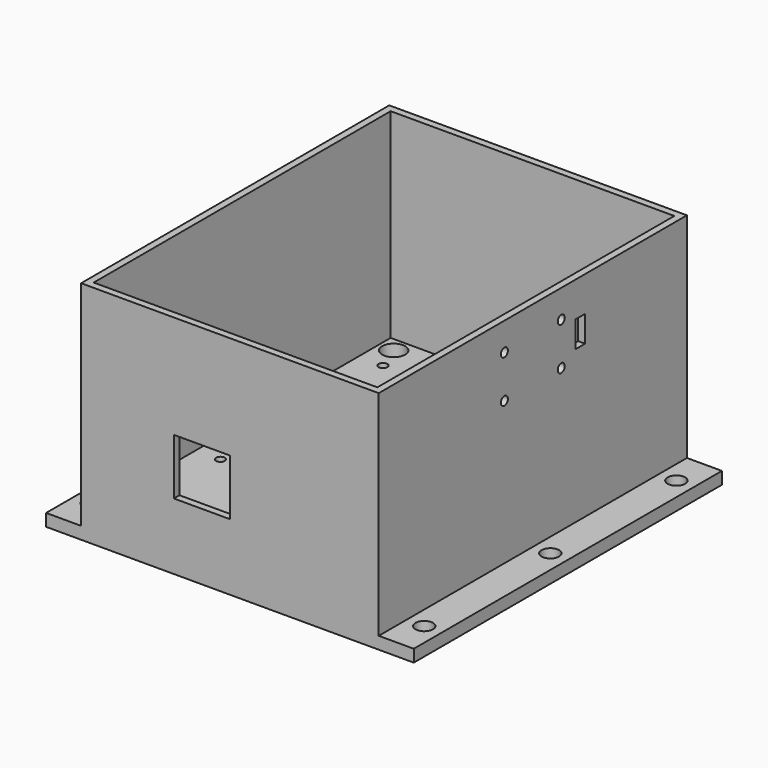
from build123d import *

# Parameters (mm, degrees)
SKETCH_W        = 105
SKETCH_H        = 110
PAD_DEPTH       = 7.5
SKETCH001_R     = 1.25
POCKET_DEPTH    = 8
SKETCH002_R     = 3
POCKET001_DEPTH = 6
SKETCH003_W     = 85
SKETCH003_H     = 110
SKETCH003_W_2   = 81
SKETCH003_H_2   = 106
PAD001_DEPTH    = 57
SKETCH004_R     = 3.29
POCKET002_DEPTH = 6
SKETCH005_W     = 10
SKETCH005_H     = 110
POCKET003_DEPTH = 4
SKETCH006_W     = 10
SKETCH006_H     = 110
POCKET004_DEPTH = 4
SKETCH007_R     = 2.5
POCKET005_DEPTH = 5
SKETCH008_W     = 16
SKETCH008_H     = 16
POCKET006_DEPTH = 5
SKETCH009_R     = 1.25
SKETCH009_W     = 3.5
SKETCH009_H     = 7.5
POCKET007_DEPTH = 5


with BuildPart() as part:
    # Sketch → Pad (new body)
    with BuildSketch(Plane.XY):
        Rectangle(SKETCH_W, SKETCH_H)
    extrude(amount=PAD_DEPTH)

    # Sketch001 (on Face6 of Pad) → Pocket (cut)
    with BuildSketch(Plane.XY.offset(7.5)):
        with Locations((-33.5, 41.5)):
            Circle(SKETCH001_R)
        with Locations((15.5, 41.5)):
            Circle(SKETCH001_R)
        with Locations((-33.5, -16.5)):
            Circle(SKETCH001_R)
        with Locations((15.5, -16.5)):
            Circle(SKETCH001_R)
    extrude(amount=-POCKET_DEPTH, mode=Mode.SUBTRACT)

    # Sketch002 (on Face4 of Pocket) → Pocket001 (cut)
    with BuildSketch(Plane(origin=(0, 0, 0), x_dir=(1, 0, 0), z_dir=(0, 0, -1))):
        with Locations((-33.5, 16.5)):
            Circle(SKETCH002_R)
        with Locations((15.5, 16.5)):
            Circle(SKETCH002_R)
        with Locations((-33.5, -41.5)):
            Circle(SKETCH002_R)
        with Locations((15.5, -41.5)):
            Circle(SKETCH002_R)
    extrude(amount=-POCKET001_DEPTH, mode=Mode.SUBTRACT)

    # Sketch003 (on Face5 of Pocket001) → Pad001 (join)
    with BuildSketch(Plane.XY.offset(7.5)):
        Rectangle(SKETCH003_W, SKETCH003_H)
        Rectangle(SKETCH003_W_2, SKETCH003_H_2, mode=Mode.SUBTRACT)
    extrude(amount=PAD001_DEPTH)

    # Sketch004 (on Face29 of Pad001) → Pocket002 (cut)
    with BuildSketch(Plane.XY.offset(7.5)):
        with Locations((-36.21, 48.71)):
            Circle(SKETCH004_R)
        with Locations((36.21, 48.71)):
            Circle(SKETCH004_R)
        with Locations((-36.21, -48.71)):
            Circle(SKETCH004_R)
        with Locations((36.21, -48.71)):
            Circle(SKETCH004_R)
    extrude(amount=-POCKET002_DEPTH, mode=Mode.SUBTRACT)

    # Sketch005 (on Face5 of Pocket002) → Pocket003 (cut)
    with BuildSketch(Plane.XY.offset(7.5)):
        with Locations((-47.5, 0)):
            Rectangle(SKETCH005_W, SKETCH005_H)
    extrude(amount=-POCKET003_DEPTH, mode=Mode.SUBTRACT)

    # Sketch006 (on Face4 of Pocket003) → Pocket004 (cut)
    with BuildSketch(Plane.XY.offset(7.5)):
        with Locations((47.5, 0)):
            Rectangle(SKETCH006_W, SKETCH006_H)
    extrude(amount=-POCKET004_DEPTH, mode=Mode.SUBTRACT)

    # Sketch007 (on Face8 of Pocket004) → Pocket005 (cut)
    with BuildSketch(Plane.XY.offset(3.5)):
        with Locations((-47.5, 45)):
            Circle(SKETCH007_R)
        with Locations((-47.5, 0)):
            Circle(SKETCH007_R)
        with Locations((-47.5, -45)):
            Circle(SKETCH007_R)
        with Locations((47.5, 45)):
            Circle(SKETCH007_R)
        with Locations((47.5, 0)):
            Circle(SKETCH007_R)
        with Locations((47.5, -45)):
            Circle(SKETCH007_R)
    extrude(amount=-POCKET005_DEPTH, mode=Mode.SUBTRACT)

    # Sketch008 (on Face24 of Pocket005) → Pocket006 (cut)
    with BuildSketch(Plane.XZ.offset(55)):
        with Locations((-8, 27)):
            Rectangle(SKETCH008_W, SKETCH008_H)
    extrude(amount=-POCKET006_DEPTH, mode=Mode.SUBTRACT)

    # Sketch009 (on Face21 of Pocket006) → Pocket007 (cut)
    with BuildSketch(Plane.YZ.offset(42.5)):
        with Locations((-10.15, 56.5)):
            Circle(SKETCH009_R)
        with Locations((10.15, 56.5)):
            Circle(SKETCH009_R)
        with Locations((-10.15, 44.33)):
            Circle(SKETCH009_R)
        with Locations((10.15, 44.33)):
            Circle(SKETCH009_R)
        with Locations((16.9, 50.75)):
            Rectangle(SKETCH009_W, SKETCH009_H)
    extrude(amount=-POCKET007_DEPTH, mode=Mode.SUBTRACT)


solid = part.part
